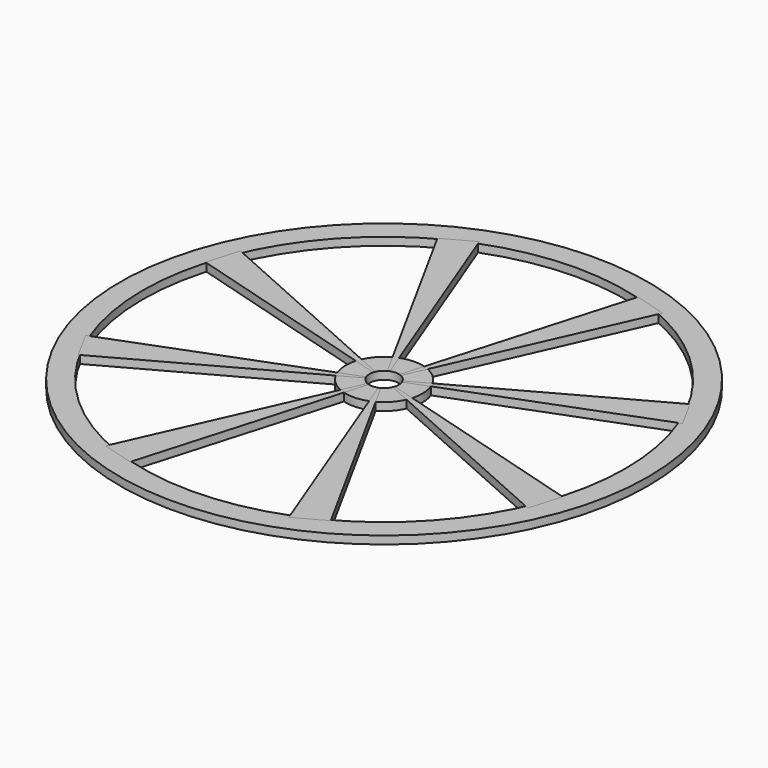
from build123d import *

# Parameters (mm, degrees)
F1_R     = 50
F1_R_2   = 45.711261
F2_DEPTH = 1.5
F3_R     = 7.261252
F4_DEPTH = 1.5
F6_DEPTH = 1.5
F7_COUNT = 8
F8_R     = 2.776
F9_DEPTH = 1.5


with BuildPart() as f2:
    # F1 (on face) → F2 (new body)
    with BuildSketch(Plane.XY):
        Circle(F1_R)
        Circle(F1_R_2, mode=Mode.SUBTRACT)
    extrude(amount=F2_DEPTH)


with BuildPart() as f4:
    # F3 (on Top) → F4 (new body)
    with BuildSketch(Plane.XY):
        Circle(F3_R)
    extrude(amount=F4_DEPTH)


with BuildPart() as f6:
    # F5 (on Top) → F6 (new body)
    with BuildSketch(Plane.XY):
        Polygon((-22.098884, 40.252522), (0, 0), (-16.573982, 43.285727), align=None)
    extrude(amount=F6_DEPTH)


with BuildPart() as f7_1:
    # F7: instance of F6
    add(f6.part.rotate(Axis((0, 0, 1.5), (0, 0, 1)), 1 * 360 / F7_COUNT))


with BuildPart() as f7_2:
    # F7: instance of F6
    add(f6.part.rotate(Axis((0, 0, 1.5), (0, 0, 1)), 2 * 360 / F7_COUNT))


with BuildPart() as f7_3:
    # F7: instance of F6
    add(f6.part.rotate(Axis((0, 0, 1.5), (0, 0, 1)), 3 * 360 / F7_COUNT))


with BuildPart() as f7_4:
    # F7: instance of F6
    add(f6.part.rotate(Axis((0, 0, 1.5), (0, 0, 1)), 4 * 360 / F7_COUNT))


with BuildPart() as f7_5:
    # F7: instance of F6
    add(f6.part.rotate(Axis((0, 0, 1.5), (0, 0, 1)), 5 * 360 / F7_COUNT))


with BuildPart() as f7_6:
    # F7: instance of F6
    add(f6.part.rotate(Axis((0, 0, 1.5), (0, 0, 1)), 6 * 360 / F7_COUNT))


with BuildPart() as f7_7:
    # F7: instance of F6
    add(f6.part.rotate(Axis((0, 0, 1.5), (0, 0, 1)), 7 * 360 / F7_COUNT))


with BuildPart() as f9_tool:
    # F8 (on Top) → F9 (new body)
    with BuildSketch(Plane.XY):
        Circle(F8_R)
    extrude(amount=F9_DEPTH)


with BuildPart() as f4_1:
    add(f4.part)

    # F9: cut by f9_tool
    add(f9_tool.part, mode=Mode.SUBTRACT)


with BuildPart() as f6_1:
    add(f6.part)

    # F9: cut by f9_tool
    add(f9_tool.part, mode=Mode.SUBTRACT)


with BuildPart() as f7_1_1:
    add(f7_1.part)

    # F9: cut by f9_tool
    add(f9_tool.part, mode=Mode.SUBTRACT)


with BuildPart() as f7_2_1:
    add(f7_2.part)

    # F9: cut by f9_tool
    add(f9_tool.part, mode=Mode.SUBTRACT)


with BuildPart() as f7_3_1:
    add(f7_3.part)

    # F9: cut by f9_tool
    add(f9_tool.part, mode=Mode.SUBTRACT)


with BuildPart() as f7_4_1:
    add(f7_4.part)

    # F9: cut by f9_tool
    add(f9_tool.part, mode=Mode.SUBTRACT)


with BuildPart() as f7_5_1:
    add(f7_5.part)

    # F9: cut by f9_tool
    add(f9_tool.part, mode=Mode.SUBTRACT)


with BuildPart() as f7_6_1:
    add(f7_6.part)

    # F9: cut by f9_tool
    add(f9_tool.part, mode=Mode.SUBTRACT)


with BuildPart() as f7_7_1:
    add(f7_7.part)

    # F9: cut by f9_tool
    add(f9_tool.part, mode=Mode.SUBTRACT)


solid = Compound([f2.part, f4_1.part, f6_1.part, f7_1_1.part, f7_2_1.part, f7_3_1.part, f7_4_1.part, f7_5_1.part, f7_6_1.part, f7_7_1.part])
